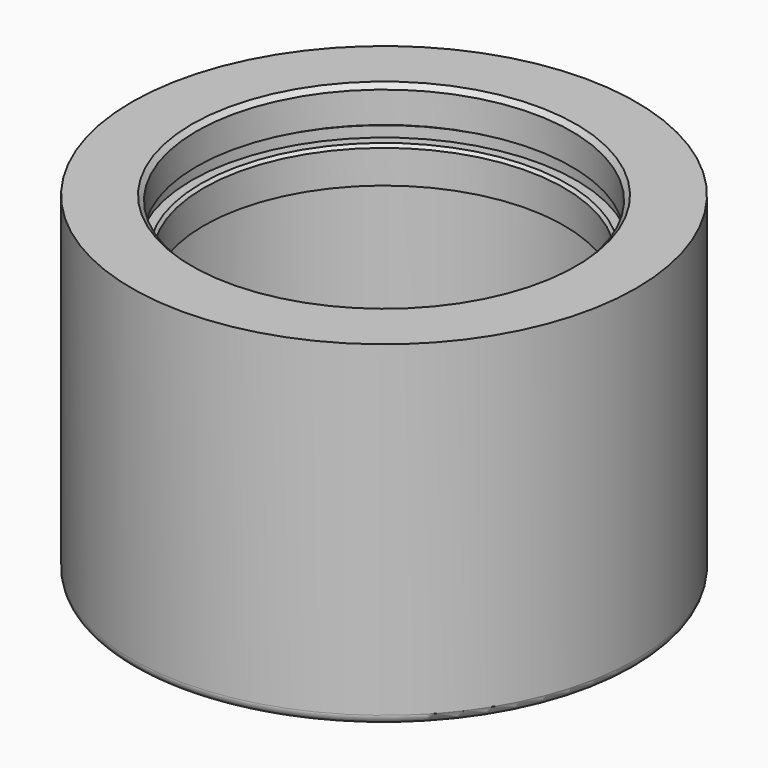
from build123d import *

# Parameters (mm, degrees)
F4_R = 1.27


with BuildPart() as f1:
    # F0 (on Front) → F1 (revolve)
    with BuildSketch(Plane.XZ):
        Polygon((-25.4, 44.45), (-33.3375, 44.45), (-33.3375, 0), (-30.7594, 0), (-27.0637, 3.6957), (-27.0637, 6.35), (-27.8765, 6.35), (-27.8765, 7.7724), (-27.0129, 7.7724), (-27.0129, 33.1724), (-23.8125, 33.1724), (-23.8125, 37.5539), (-24.1935, 37.9349), (-25.4, 37.9349), (-25.4, 39.37), (-24.78405, 39.725619), (-24.78405, 43.83405), align=None)
    revolve(axis=Axis((0, 0, 12.346035), (0, 0, 1)))

    # F4
    f4_edges = [f1.edges().sort_by_distance(p)[0] for p in [
        (33.3375, 0, 0),
    ]]
    fillet(f4_edges, radius=F4_R)


solid = f1.part
